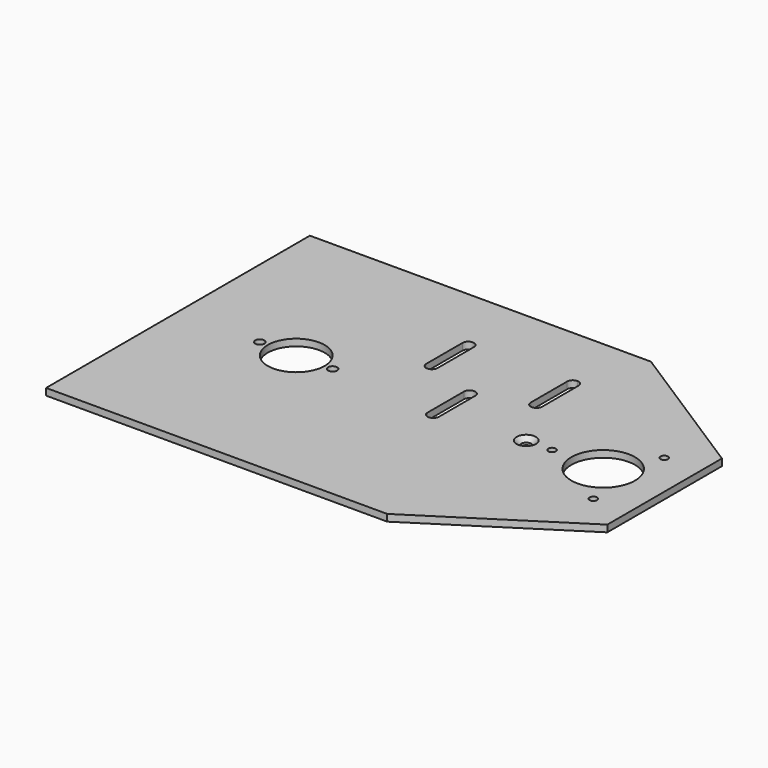
from build123d import *

# Parameters (mm, degrees)
F1_DEPTH        = 3
F3_D            = 28
F5_D            = 3.3
F7_DEPTH        = 3
F9_DEPTH        = 3
F11_D           = 4.5
F11_CSINK_D     = 8.5
F11_CSINK_ANGLE = 90


with BuildPart() as f1:
    # F0 (on Top) → F1 (new body)
    with BuildSketch(Plane.XY):
        Polygon((75, 0), (75, 72.5), (-75, 72.5), (-75, -72.5), (75, -72.5), align=None)
        Polygon((139, 31.5), (75, 72.5), (75, 0), (139, 0), align=None)
        Polygon((139, 0), (75, 0), (75, -72.5), (139, -31.5), align=None)
    extrude(amount=F1_DEPTH)

    # F3 (through all)
    with Locations(Plane.XY.offset(3)):
        with Locations((112, 0)):
            Hole(F3_D / 2)

    # F5 (through all)
    with Locations(Plane.XY.offset(3)):
        with Locations((89.5, 0), (123.25, -19.4855715851), (123.25, 19.4855715851)):
            Hole(F5_D / 2)

    # F6 (on face) → F7 (cut, through all)
    with BuildSketch(Plane.XY.offset(3)):
        with BuildLine():
            Line((-37, 0), (-39, 0))
            Line((-39, 0), (-39, -2))
            ThreePointArc((-39, -2), (-37.5857864376, -1.4142135624), (-37, 0))
        make_face()
        with BuildLine():
            Line((-39, -2), (-39, 0))
            Line((-39, 0), (-37, 0))
            ThreePointArc((-37, 0), (-40.4142135624, 1.4142135624), (-39, -2))
        make_face()
        with BuildLine():
            ThreePointArc((-5, 0), (-7, 2), (-9, 0))
            Line((-9, 0), (-7, 0))
            Line((-7, 0), (-7, -2))
            ThreePointArc((-7, -2), (-5.5857864376, -1.4142135624), (-5, 0))
        make_face()
        with BuildLine():
            Line((-7, 0), (-9, 0))
            ThreePointArc((-9, 0), (-8.4142135624, -1.4142135624), (-7, -2))
            Line((-7, -2), (-7, 0))
        make_face()
        with BuildLine():
            ThreePointArc((-10.5, 0), (-23, 12.5), (-35.5, 0))
            Line((-35.5, 0), (-10.5, 0))
        make_face()
        with BuildLine():
            Line((-10.5, 0), (-35.5, 0))
            ThreePointArc((-35.5, 0), (-23, -12.5), (-10.5, 0))
        make_face()
    extrude(amount=-F7_DEPTH, mode=Mode.SUBTRACT)

    # F8 (on face) → F9 (cut, through all)
    with BuildSketch(Plane.XY.offset(3)):
        with BuildLine():
            Line((38.75, 15), (38.75, -5))
            ThreePointArc((38.75, -5), (41.25, -7.5), (43.75, -5))
            Line((43.75, -5), (43.75, 15))
            ThreePointArc((43.75, 15), (41.25, 17.5), (38.75, 15))
        make_face()
        with BuildLine():
            ThreePointArc((61.75, 23), (62.482233047, 21.232233047), (64.25, 20.5))
            Line((64.25, 20.5), (64.25, 45.5))
            ThreePointArc((64.25, 45.5), (62.482233047, 44.767766953), (61.75, 43))
            Line((61.75, 43), (61.75, 23))
        make_face()
        with BuildLine():
            Line((64.25, 45.5), (64.25, 20.5))
            ThreePointArc((64.25, 20.5), (66.017766953, 21.232233047), (66.75, 23))
            Line((66.75, 23), (66.75, 43))
            ThreePointArc((66.75, 43), (66.017766953, 44.767766953), (64.25, 45.5))
        make_face()
        with BuildLine():
            Line((20.75, 23), (20.75, 43))
            ThreePointArc((20.75, 43), (18.25, 45.5), (15.75, 43))
            Line((15.75, 43), (15.75, 23))
            ThreePointArc((15.75, 23), (18.25, 20.5), (20.75, 23))
        make_face()
    extrude(amount=-F9_DEPTH, mode=Mode.SUBTRACT)

    # F11 (through all)
    with Locations(Plane.XY.offset(3)):
        with Locations((78.15, 0)):
            CounterSinkHole(F11_D / 2, F11_CSINK_D / 2, counter_sink_angle=F11_CSINK_ANGLE)


solid = f1.part
